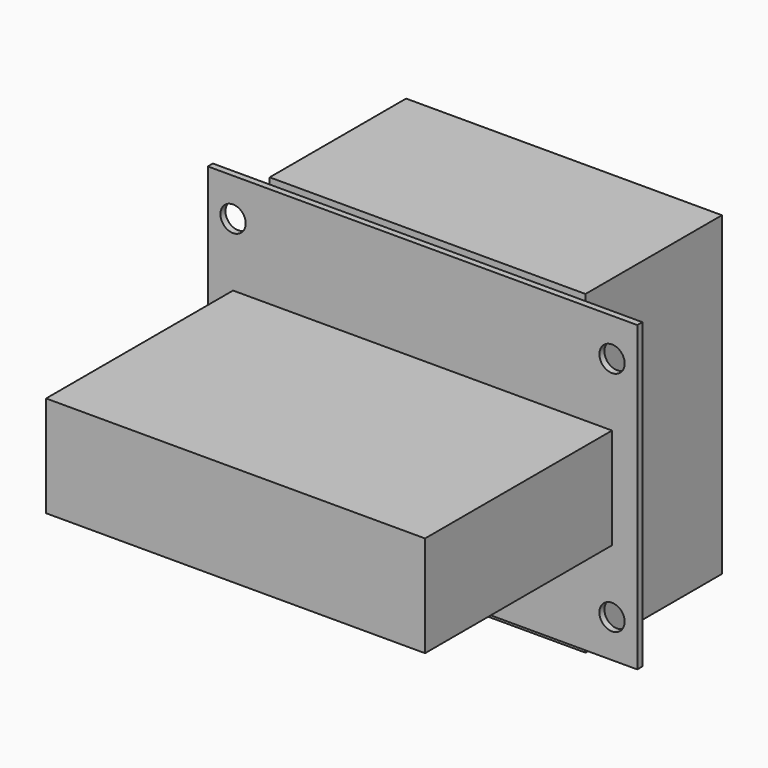
from build123d import *

# Parameters (mm, degrees)
F0_W     = 158.75
F0_H     = 50.8
F0_R     = 6.35
F0_W_2   = 15.875
F1_DEPTH = 3.175
F0_H_2   = 3.175
F2_DEPTH = 85.725
F3_DEPTH = 120.65


with BuildPart() as f1:
    # F0 (on Front) → F1 (new body)
    with BuildSketch(Plane.XZ):
        with Locations((0, -50.8)):
            Rectangle(F0_W, F0_H)
        with Locations((0, 50.8)):
            Rectangle(F0_W, F0_H)
        Polygon((95.25, 25.4), (95.25, -25.4), (79.375, -25.4), (79.375, -76.2), (107.95, -76.2), (107.95, 76.2), (79.375, 76.2), (79.375, 25.4), align=None)
        with Locations((95.25, -57.15)):
            Circle(F0_R, mode=Mode.SUBTRACT)
        with Locations((95.25, 57.15)):
            Circle(F0_R, mode=Mode.SUBTRACT)
        Polygon((-79.375, -76.2), (-79.375, -25.4), (-95.25, -25.4), (-95.25, 25.4), (-79.375, 25.4), (-79.375, 76.2), (-107.95, 76.2), (-107.95, -76.2), align=None)
        with Locations((-95.25, -57.15)):
            Circle(F0_R, mode=Mode.SUBTRACT)
        with Locations((-95.25, 57.15)):
            Circle(F0_R, mode=Mode.SUBTRACT)
        Rectangle(F0_W, F0_H)
        with Locations((-87.3125, 0)):
            Rectangle(F0_W_2, F0_H)
        with Locations((87.3125, 0)):
            Rectangle(F0_W_2, F0_H)
    extrude(amount=F1_DEPTH)

    # F0 (on Front) → F2 (join)
    with BuildSketch(Plane.XZ):
        with Locations((0, -50.8)):
            Rectangle(F0_W, F0_H)
        Rectangle(F0_W, F0_H)
        with Locations((0, 50.8)):
            Rectangle(F0_W, F0_H)
        with Locations((0, 77.7875)):
            Rectangle(F0_W, F0_H_2)
        with Locations((0, -77.7875)):
            Rectangle(F0_W, F0_H_2)
    extrude(amount=-F2_DEPTH)

    # F0 (on Front) → F3 (join)
    with BuildSketch(Plane.XZ):
        with Locations((-87.3125, 0)):
            Rectangle(F0_W_2, F0_H)
        Rectangle(F0_W, F0_H)
        with Locations((87.3125, 0)):
            Rectangle(F0_W_2, F0_H)
    extrude(amount=F3_DEPTH)


solid = f1.part
